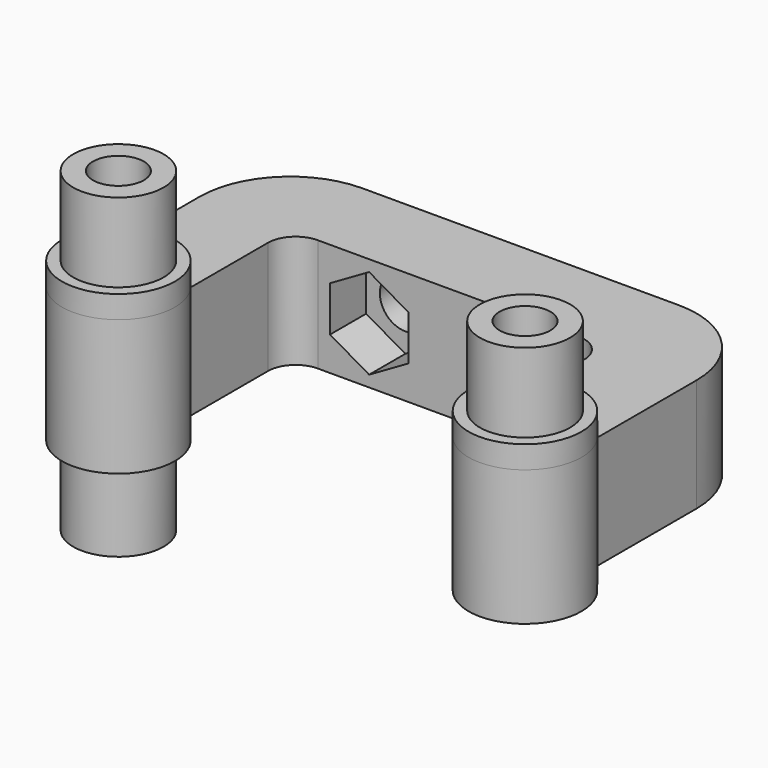
from build123d import *

# Parameters (mm, degrees)
SKETCH024_W             = 24
SKETCH024_H             = 10
SKETCH024_R             = 2.25
PAD008_DEPTH            = 8
PAD009_DEPTH            = 10
POCKET_DEPTH            = 4
SKETCH027_R             = 5
PAD010_DEPTH            = 2
PAD010_DEPTH_BACK       = 12
SKETCH028_R             = 4
PAD011_DEPTH            = 7
PAD011_DEPTH_BACK       = 21
SKETCH029_R             = 4
PAD012_DEPTH            = 7
POCKET001_DEPTH         = 4
SKETCH031_R             = 2.25
HOLE001_DEPTH           = 50
BODY003_PLACEMENT_ANGLE = 180


with BuildPart() as part:
    # Sketch024 → Pad008 (new body)
    with BuildSketch(Plane.XZ):
        with Locations((0, 44)):
            Rectangle(SKETCH024_W, SKETCH024_H)
        with Locations((-7, 44)):
            Circle(SKETCH024_R, mode=Mode.SUBTRACT)
        with Locations((7, 44)):
            Circle(SKETCH024_R, mode=Mode.SUBTRACT)
    extrude(amount=-PAD008_DEPTH)

    # Sketch025 (on Face1 of Pad008) → Pad009 (join)
    with BuildSketch(Plane(origin=(0, 0, 49), x_dir=(-1, 0, 0), z_dir=(0, 0, 1))):
        with BuildLine():
            Line((-10, 0), (-10, -8))
            Line((-11.55, -8), (-10, -8))
            ThreePointArc((-11.55, -8), (-13.28241, -8.717587), (-14, -10.449996))
            Line((-14, -10.449996), (-14.000017, -22))
            Line((-22.000017, -22), (-14.000017, -22))
            Line((-22, -8), (-22.000017, -22))
            ThreePointArc((-14, 0), (-19.656854, -2.343146), (-22, -8))
            Line((-10, 0), (-14, 0))
        make_face()
        with BuildLine():
            Line((10, -8), (10, 0))
            Line((10, 0), (14, 0))
            ThreePointArc((22, -8), (19.656854, -2.343146), (14, 0))
            Line((22, -8), (22, -22))
            Line((14, -22), (22, -22))
            Line((14, -10.45), (14, -22))
            ThreePointArc((14, -10.45), (13.282412, -8.717588), (11.55, -8))
            Line((10, -8), (11.55, -8))
        make_face()
    extrude(amount=-PAD009_DEPTH)

    # Sketch026 (on Face10 of Pad009) → Pocket (cut)
    with BuildSketch(Plane(origin=(0, 8, 0), x_dir=(1, 0, 0), z_dir=(0, 1, 0))):
        Polygon((-3.535898, -46), (-3.535898, -42), (-7, -40), (-10.464102, -42), (-10.464102, -46), (-7, -48), align=None)
        Polygon((10.464102, -46), (10.464102, -42), (7, -40), (3.535898, -42), (3.535898, -46), (7, -48), align=None)
    extrude(amount=-POCKET_DEPTH, mode=Mode.SUBTRACT)

    # Sketch027 (on Face3 of Pocket) → Pad010 (join, two sides)
    with BuildSketch(Plane(origin=(0, 0, 49), x_dir=(-1, 0, 0), z_dir=(0, 0, 1))) as pad010_sk:
        with Locations((-18, -22)):
            Circle(SKETCH027_R)
        with Locations((18, -22)):
            Circle(SKETCH027_R)
    extrude(amount=PAD010_DEPTH)
    extrude(pad010_sk.sketch, amount=-PAD010_DEPTH_BACK)

    # Sketch028 (on Face36 of Pad010) → Pad011 (join, two sides)
    with BuildSketch(Plane(origin=(0, 0, 51), x_dir=(-1, 0, 0), z_dir=(0, 0, 1))) as pad011_sk:
        with Locations((-18, -22)):
            Circle(SKETCH028_R)
    extrude(amount=PAD011_DEPTH)
    extrude(pad011_sk.sketch, amount=-PAD011_DEPTH_BACK)

    # Sketch029 (on Face50 of Pad011) → Pad012 (join)
    with BuildSketch(Plane(origin=(0, 0, 51), x_dir=(-1, 0, 0), z_dir=(0, 0, 1))):
        with Locations((18, -22)):
            Circle(SKETCH029_R)
    extrude(amount=PAD012_DEPTH)

    # Sketch030 (on Face49 of Pad012) → Pocket001 (cut)
    with BuildSketch(Plane(origin=(0, 0, 37), x_dir=(1, 0, 0), z_dir=(0, 0, -1))):
        Polygon((-14.535898, -24), (-14.535898, -20), (-18, -18), (-21.464102, -20), (-21.464102, -24), (-18, -26), align=None)
    extrude(amount=-POCKET001_DEPTH, mode=Mode.SUBTRACT)

    # Sketch031 (on Face61 of Pocket001) → Hole001 (cut)
    with BuildSketch(Plane(origin=(0, 0, 58), x_dir=(-1, 0, 0), z_dir=(0, 0, 1))):
        with Locations((18, -22)):
            Circle(SKETCH031_R)
        with Locations((-18, -22)):
            Circle(SKETCH031_R)
    extrude(amount=-HOLE001_DEPTH, mode=Mode.SUBTRACT)


with BuildPart() as part_1:
    # Body003 placement: moved
    add(part.part.moved(Location((18, 169, -23))).rotate(Axis((18, 169, -23), (0, 0, 1)), BODY003_PLACEMENT_ANGLE))


solid = part_1.part
